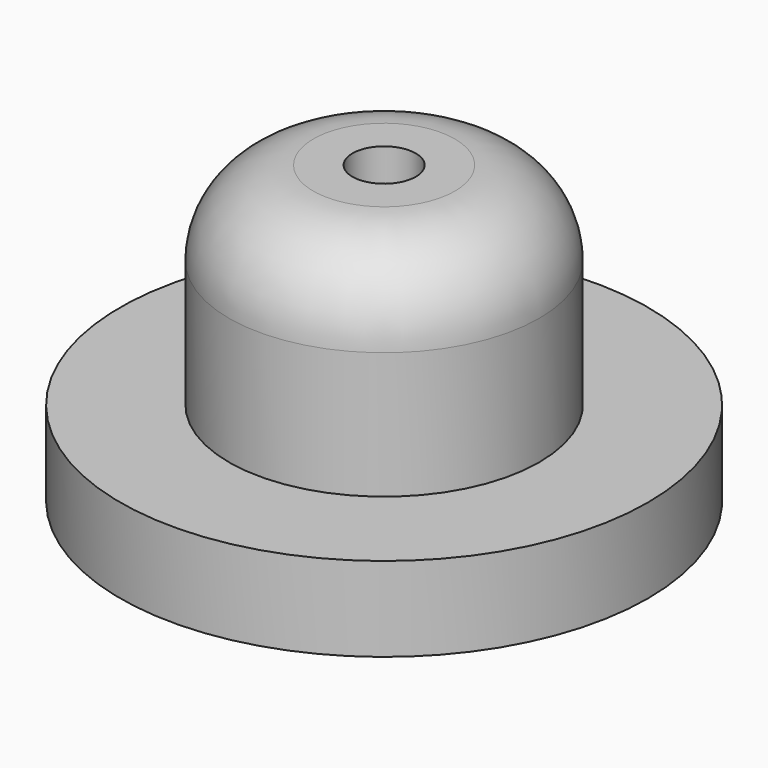
from build123d import *

# Parameters (mm, degrees)
F0_R     = 12.5
F1_DEPTH = 4
F2_R     = 7.35
F3_DEPTH = 10
F4_R     = 1.5
F5_DEPTH = 14.001
F6_R     = 4


with BuildPart() as f1:
    # F0 (on Top) → F1 (new body)
    with BuildSketch(Plane.XY):
        Circle(F0_R)
    extrude(amount=F1_DEPTH)

    # F2 (on face) → F3 (join)
    with BuildSketch(Plane.XY.offset(4)):
        Circle(F2_R)
    extrude(amount=F3_DEPTH)

    # F4 (on face) → F5 (cut, through all)
    with BuildSketch(Plane.XY.offset(14)):
        Circle(F4_R)
    extrude(amount=-F5_DEPTH, mode=Mode.SUBTRACT)

    # F6
    f6_edges = [f1.edges().sort_by_distance(p)[0] for p in [
        (-7.35, 0, 14),
    ]]
    fillet(f6_edges, radius=F6_R)


solid = f1.part
